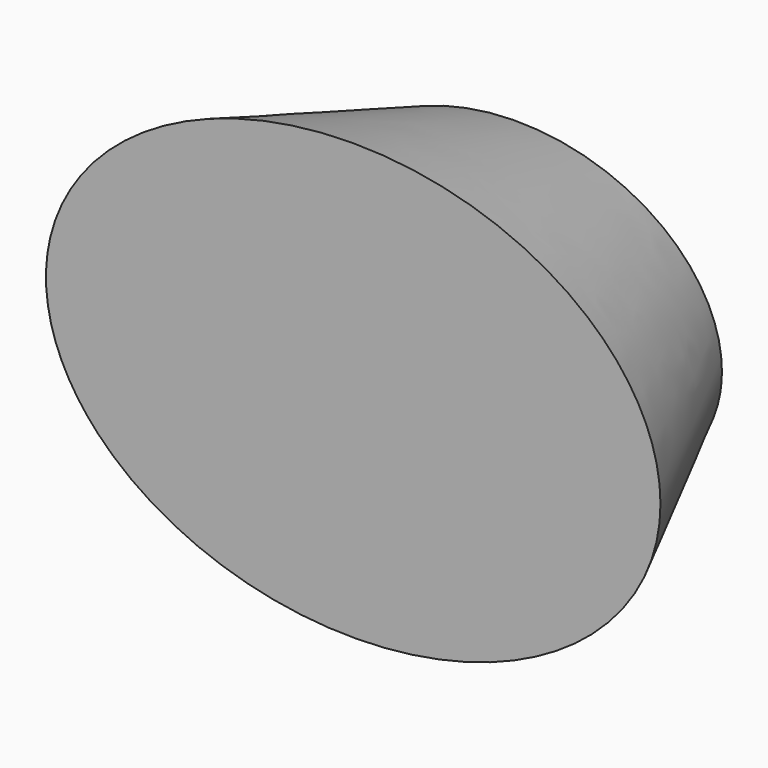
from build123d import *


with BuildPart() as f3:
    # F2 (on offset) → F3 section 0
    with BuildSketch(Plane.XZ.offset(40)):
        with BuildLine():
            add(Edge.make_bspline(
                [(60, 0), (60, 73.612159), (-30, 36.80608), (-120, 0), (-30, -36.80608), (60, -73.612159), (60, 0)],
                knots=[0, 0, 0, 2.094395, 2.094395, 4.18879, 4.18879, 6.283185, 6.283185, 6.283185], degree=2, weights=[1, 0.5, 1, 0.5, 1, 0.5, 1]))
        make_face()
    # F0 (on Front) → F3 section 1
    with BuildSketch(Plane.XZ):
        with BuildLine():
            add(Edge.make_bspline(
                [(40, 0), (40, 51.961524), (-20, 25.980762), (-80, 0), (-20, -25.980762), (40, -51.961524), (40, 0)],
                knots=[0, 0, 0, 2.094395, 2.094395, 4.18879, 4.18879, 6.283185, 6.283185, 6.283185], degree=2, weights=[1, 0.5, 1, 0.5, 1, 0.5, 1]))
        make_face()
    loft()


solid = f3.part
